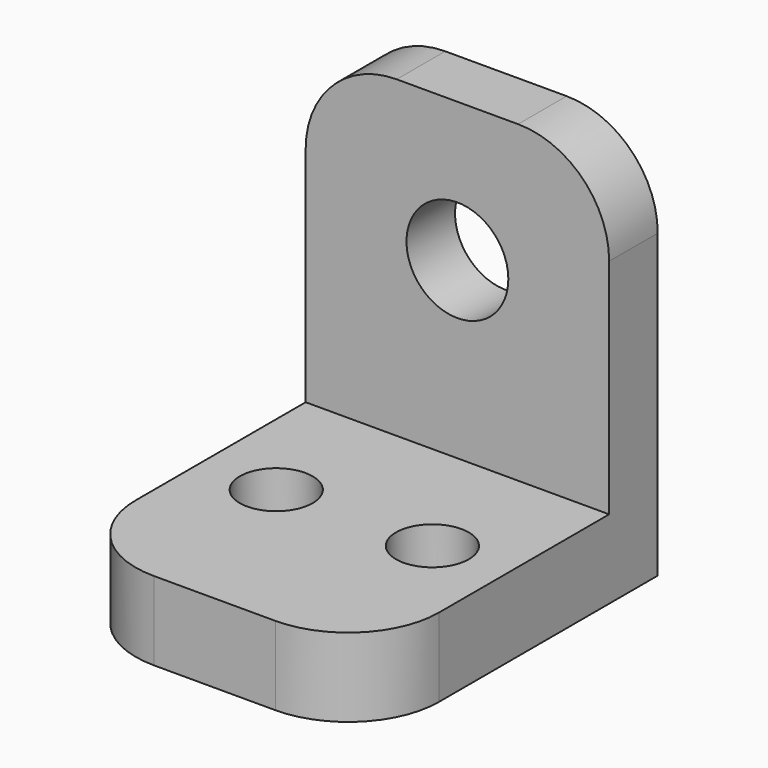
from build123d import *

# Parameters (mm, degrees)
F0_W     = 63.5
F0_H     = 16.248186
F2_DEPTH = 12.7
F1_R     = 10.654421
F3_DEPTH = 12.7
F4_W     = 63.5
F4_H     = 16.455863
F5_DEPTH = 63.5
F6_R     = 19.05
F7_R     = 19.05
F8_R     = 7.62
F9_DEPTH = 25.4


with BuildPart() as f2:
    # F0 (on Front) → F2 (new body)
    with BuildSketch(Plane.XZ):
        Rectangle(F0_W, F0_H)
        with BuildLine():
            Line((-31.75, 8.124093), (31.75, 8.124093))
            Line((31.75, 8.124093), (31.75, 54.949972))
            ThreePointArc((31.75, 54.949972), (26.170384, 68.420356), (12.7, 73.999972))
            Line((12.7, 73.999972), (-12.7, 73.999972))
            ThreePointArc((-12.7, 73.999972), (-26.170384, 68.420356), (-31.75, 54.949972))
            Line((-31.75, 54.949972), (-31.75, 8.124093))
        make_face()
    extrude(amount=F2_DEPTH)

    # F1 (on Front) → F3 (cut)
    with BuildSketch(Plane.XZ):
        with Locations((0, 44.805601)):
            Circle(F1_R)
    extrude(amount=F3_DEPTH, mode=Mode.SUBTRACT)

    # F4 (on face) → F5 (join)
    with BuildSketch(Plane.XZ.offset(12.7)):
        with Locations((0, 0.103838)):
            Rectangle(F4_W, F4_H)
    extrude(amount=F5_DEPTH)

    # F6
    f6_edges = [f2.edges().sort_by_distance(p)[0] for p in [
        (-31.75, -76.2, 0.103839),
    ]]
    fillet(f6_edges, radius=F6_R)

    # F7
    f7_edges = [f2.edges().sort_by_distance(p)[0] for p in [
        (31.75, -76.2, 0.103839),
    ]]
    fillet(f7_edges, radius=F7_R)

    # F8 (on Top) → F9 (cut, symmetric)
    with BuildSketch(Plane.XY):
        with Locations((-16.165424, -39.872381)):
            Circle(F8_R)
        with Locations((16.163939, -39.445149)):
            Circle(F8_R)
    extrude(amount=F9_DEPTH, both=True, mode=Mode.SUBTRACT)


solid = f2.part
